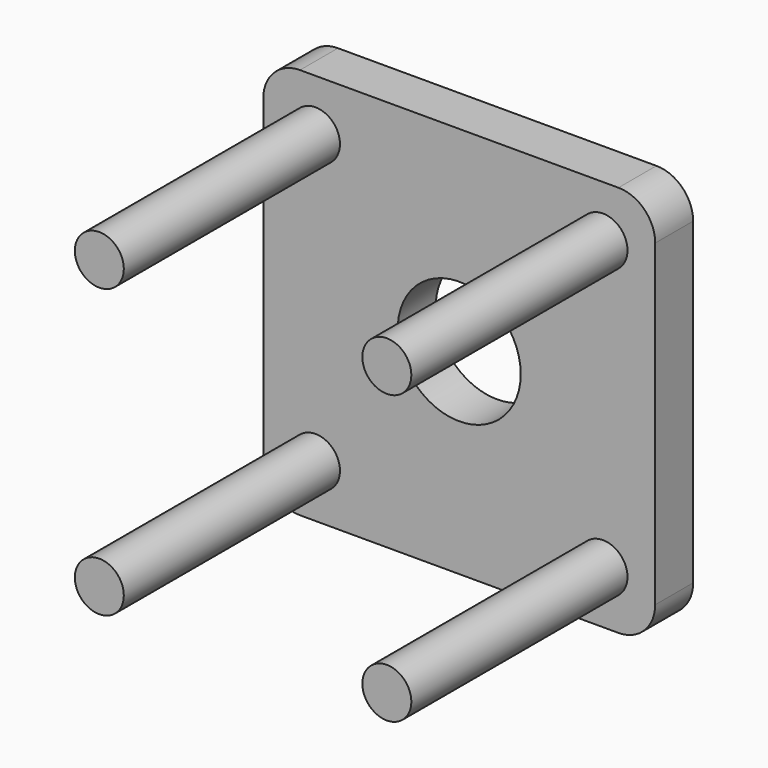
from build123d import *

# Parameters (mm, degrees)
F0_W     = 203.2
F0_H     = 203.2
F1_DEPTH = 24.5872
F2_R     = 19.05
F3_R     = 31.877
F4_DEPTH = 24.5882
F6_D     = 12.7
F7_R     = 12.7
F8_DEPTH = 140.081


with BuildPart() as f1:
    # F0 (on Front) → F1 (new body)
    with BuildSketch(Plane.XZ):
        Rectangle(F0_W, F0_H)
    extrude(amount=-F1_DEPTH)

    # F2
    f2_edges = [f1.edges().sort_by_distance(p)[0] for p in [
        (-101.6, 12.2936, 101.6),
        (101.6, 12.2936, 101.6),
        (-101.6, 12.2936, -101.6),
        (101.6, 12.2936, -101.6),
    ]]
    fillet(f2_edges, radius=F2_R)

    # F3 (on face) → F4 (cut, through all)
    with BuildSketch(Plane.XZ):
        Circle(F3_R)
    extrude(amount=-F4_DEPTH, mode=Mode.SUBTRACT)

    # F6 (through all)
    with Locations(Plane.XZ):
        with Locations((-74.536126, 74.536126), (74.536126, 74.536126), (74.536126, -74.536126), (-74.536126, -74.536126)):
            Hole(F6_D / 2)


with BuildPart() as f8:
    # F7 (on face) → F8 (new body)
    with BuildSketch(Plane.XZ):
        with Locations((-74.536126, 74.536126)):
            Circle(F7_R)
        with Locations((-74.536126, -74.536126)):
            Circle(F7_R)
        with Locations((74.536126, -74.536126)):
            Circle(F7_R)
        with Locations((74.536126, 74.536126)):
            Circle(F7_R)
    extrude(amount=F8_DEPTH)


solid = Compound([f1.part, f8.part])
